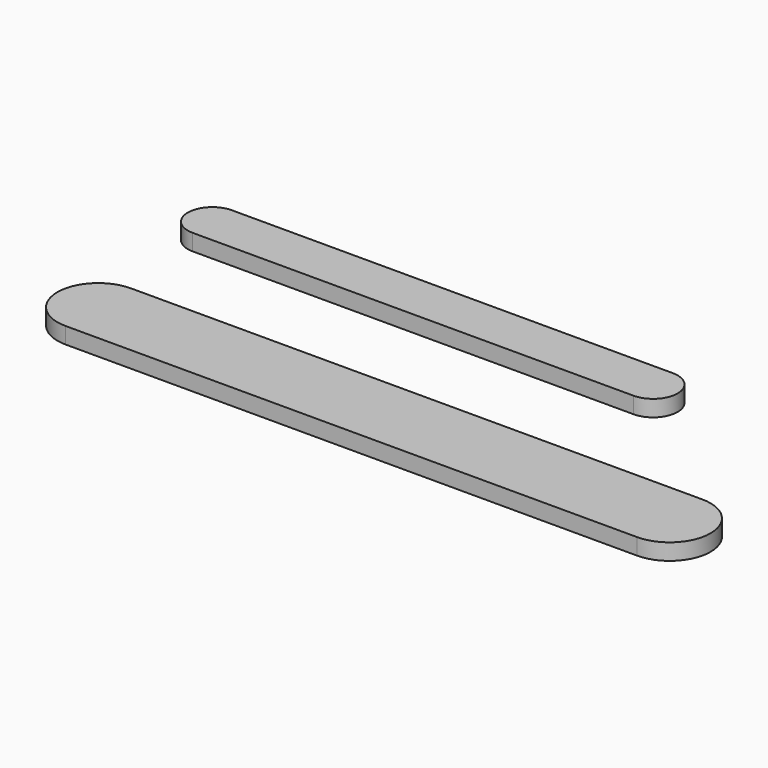
from build123d import *

# Parameters (mm, degrees)
F1_DEPTH = 2
F2_DEPTH = 2


with BuildPart() as f1:
    # F0 (on Top) → F1 (new body)
    with BuildSketch(Plane.XY):
        with BuildLine():
            Line((21.682061, 8.326693), (-32.317939, 8.326693))
            ThreePointArc((-32.317939, 8.326693), (-35.317939, 5.326693), (-32.317939, 2.326693))
            Line((-32.317939, 2.326693), (21.682061, 2.326693))
            ThreePointArc((21.682061, 2.326693), (24.682061, 5.326693), (21.682061, 8.326693))
        make_face()
    extrude(amount=F1_DEPTH)


with BuildPart() as f2:
    # F0 (on Top) → F2 (new body)
    with BuildSketch(Plane.XY):
        with BuildLine():
            Line((40.240743, -10.335269), (-29.759257, -10.335269))
            ThreePointArc((-29.759257, -10.335269), (-34.759257, -15.335269), (-29.759257, -20.335269))
            Line((-29.759257, -20.335269), (40.240743, -20.335269))
            ThreePointArc((40.240743, -20.335269), (45.240743, -15.335269), (40.240743, -10.335269))
        make_face()
    extrude(amount=F2_DEPTH)


solid = Compound([f1.part, f2.part])
